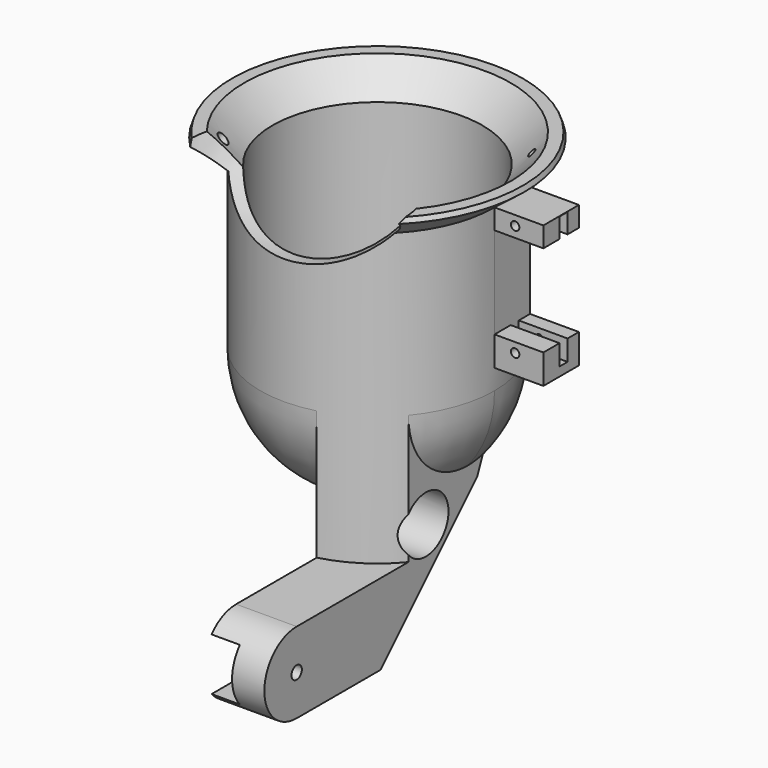
from build123d import *

# Parameters (mm, degrees)
CYLINDER413_R               = 26
CYLINDER413_DEPTH           = 40
CYLINDER408_R               = 1.5
CYLINDER408_DEPTH           = 20
CYLINDER408_PLACEMENT_ANGLE = 45
CYLINDER409_R               = 1
CYLINDER409_DEPTH           = 20
CYLINDER409_PLACEMENT_ANGLE = 45
FUSION402_PLACEMENT_ANGLE   = 45
FUSION406_PLACEMENT_ANGLE   = 12
CYLINDER412_R               = 29
CYLINDER412_DEPTH           = 40
CHAMFER047_SIZE             = 2
CYLINDER414_W               = 29
CYLINDER414_H               = 40
CYLINDER414_ANGLE           = 90
CYLINDER415_W               = 35
CYLINDER415_H               = 40
CYLINDER415_ANGLE           = 90
CYLINDER411_R               = 1.05
CYLINDER411_DEPTH           = 50
CYLINDER407_R               = 1.05
CYLINDER407_DEPTH           = 50
FUSION404_PLACEMENT_ANGLE   = 90
BOX523_W                    = 12.1
BOX523_H                    = 14
BOX523_DEPTH                = 35
BOX521_W                    = 12.1
BOX521_H                    = 2.5
BOX521_DEPTH                = 32.7
BOX522_W                    = 12.1
BOX522_H                    = 26.7
BOX522_DEPTH                = 22.7
CYLINDER410_R               = 2.4
CYLINDER410_DEPTH           = 3
BOX520_W                    = 45.1
BOX520_H                    = 25
BOX520_DEPTH                = 35
CYLINDER417_R               = 26
CYLINDER417_DEPTH           = 40
CYLINDER418_W               = 29
CYLINDER418_H               = 79
CYLINDER418_ANGLE           = 90
CYLINDER419_W               = 50
CYLINDER419_H               = 79
CYLINDER419_ANGLE           = 90
CYLINDER416_R               = 7
CYLINDER416_DEPTH           = 50
BOX524_W                    = 15
BOX524_H                    = 39
BOX524_DEPTH                = 67
CHAMFER045_SIZE             = 30
CHAMFER046_SIZE             = 5
BOX526_W                    = 7
BOX526_H                    = 34
BOX526_DEPTH                = 13
CYLINDER421_R               = 1.6
CYLINDER421_DEPTH           = 25
CYLINDER420_R               = 10
CYLINDER420_DEPTH           = 15
BOX525_W                    = 15
BOX525_H                    = 24
BOX525_DEPTH                = 20
FUSION411_PLACEMENT_ANGLE   = 180


with BuildPart() as sphere012:
    # Sphere012 → Sphere012 (revolve)
    with BuildSketch(Plane(origin=(-34, -145, 13), x_dir=(1, 0, 0), z_dir=(0, -1, 0))):
        with BuildLine():
            ThreePointArc((26, 0), (22.51666, 13), (13, 22.51666))
            Line((13, 22.51666), (0, 22.51666))
            Line((0, 22.51666), (0, 0))
            Line((0, 0), (26, 0))
        make_face()
    revolve(axis=Axis((-34, -145, 13), (0, 0, 1)))


with BuildPart() as fusion405:
    # Cylinder413 → Cylinder413 (new body)
    with BuildSketch(Plane(origin=(-34, -145, -27), x_dir=(1, 0, 0), z_dir=(0, 0, 1))):
        Circle(CYLINDER413_R)
    extrude(amount=CYLINDER413_DEPTH)

    # Fusion405: union Sphere012
    add(sphere012.part)


with BuildPart() as fusion405_1:
    # Fusion405 placement: moved
    add(fusion405.part.moved(Location((0, 0, 12))))


with BuildPart() as cylinder408:
    # Cylinder408 → Cylinder408 (new body)
    with BuildSketch(Plane.XY):
        Circle(CYLINDER408_R)
    extrude(amount=CYLINDER408_DEPTH)


with BuildPart() as cylinder408_1:
    # Cylinder408 placement: moved
    add(cylinder408.part.moved(Location((-57, -145, -26))).rotate(Axis((-57, -145, -26), (0, -1, 0)), CYLINDER408_PLACEMENT_ANGLE))


with BuildPart() as fusion406:
    # Cylinder409 → Cylinder409 (new body)
    with BuildSketch(Plane.XY):
        Circle(CYLINDER409_R)
    extrude(amount=CYLINDER409_DEPTH)


with BuildPart() as fusion406_1:
    # Cylinder409 placement: moved
    add(fusion406.part.moved(Location((-11, -145, -26))).rotate(Axis((-11, -145, -26), (0, 1, 0)), CYLINDER409_PLACEMENT_ANGLE))

    # Fusion402: union Cylinder408
    add(cylinder408_1.part)


with BuildPart() as fusion406_2:
    # Fusion402 placement: moved
    add(fusion406_1.part.moved(Location((92.57, -66.51, 0))).rotate(Axis((92.57, -66.51, 0), (0, 0, -1)), FUSION402_PLACEMENT_ANGLE))


with BuildPart() as fusion406_3:
    # Fusion406 placement: moved
    add(fusion406_2.part.moved(Location((-30.890177, 3.9004, 0))).rotate(Axis((-30.890177, 3.9004, 0), (0, 0, 1)), FUSION406_PLACEMENT_ANGLE))


with BuildPart() as sphere014:
    # Sphere014 → Sphere014 (revolve)
    with BuildSketch(Plane(origin=(-34, -119, -36), x_dir=(1, 0, 0), z_dir=(0, -1, 0))):
        with BuildLine():
            ThreePointArc((0, -30), (30, 0), (0, 30))
            Line((0, 30), (0, -30))
        make_face()
    revolve(axis=Axis((-34, -119, -36), (0, 0, 1)))


with BuildPart() as cylinder412:
    # Cylinder412 → Cylinder412 (new body)
    with BuildSketch(Plane(origin=(-34, -145, -15), x_dir=(1, 0, 0), z_dir=(0, 0, 1))):
        Circle(CYLINDER412_R)
    extrude(amount=CYLINDER412_DEPTH)


with BuildPart() as sphere011:
    # Sphere011 → Sphere011 (revolve)
    with BuildSketch(Plane(origin=(-34, -145, 25), x_dir=(1, 0, 0), z_dir=(0, -1, 0))):
        with BuildLine():
            ThreePointArc((29, 0), (25.114737, 14.5), (14.5, 25.114737))
            Line((14.5, 25.114737), (0, 25.114737))
            Line((0, 25.114737), (0, 0))
            Line((0, 0), (29, 0))
        make_face()
    revolve(axis=Axis((-34, -145, 25), (0, 0, 1)))


with BuildPart() as cone007:
    # Cone007 → Cone007 (revolve)
    with BuildSketch(Plane.XZ):
        Polygon((0, 0), (33, 0), (26, 7), (0, 7), align=None)
    revolve(axis=Axis((0, 0, 0), (0, 0, 1)))


with BuildPart() as cut444:
    # Cone006 → Cone006 (revolve)
    with BuildSketch(Plane.XZ):
        Polygon((0, 0), (38, 0), (29, 7), (0, 7), align=None)
    revolve(axis=Axis((0, 0, 0), (0, 0, 1)))

    # Cut441: cut Cone007
    add(cone007.part, mode=Mode.SUBTRACT)


with BuildPart() as cut444_1:
    # Cut441 placement: moved
    add(cut444.part.moved(Location((-34, -145, -22))))

    # Chamfer047
    chamfer047_edges = [cut444_1.edges().sort_by_distance(p)[0] for p in [
        (-72, -145, -22),
    ]]
    chamfer(chamfer047_edges, length=CHAMFER047_SIZE)

    # Fusion408: union Cylinder412, Sphere011
    add(cylinder412.part)
    add(sphere011.part)

    # Cut443: cut Sphere014
    add(sphere014.part, mode=Mode.SUBTRACT)

    # Cut444: cut Fusion406
    add(fusion406_3.part, mode=Mode.SUBTRACT)


with BuildPart() as cylinder414:
    # Cylinder414 → Cylinder414 (revolve)
    with BuildSketch(Plane.XZ):
        with Locations((14.5, 20)):
            Rectangle(CYLINDER414_W, CYLINDER414_H)
    revolve(axis=Axis((0, 0, 0), (0, 0, 1)), revolution_arc=CYLINDER414_ANGLE)


with BuildPart() as cut440:
    # Cylinder415 → Cylinder415 (revolve)
    with BuildSketch(Plane.XZ):
        with Locations((17.5, 20)):
            Rectangle(CYLINDER415_W, CYLINDER415_H)
    revolve(axis=Axis((0, 0, 0), (0, 0, 1)), revolution_arc=CYLINDER415_ANGLE)

    # Cut440: cut Cylinder414
    add(cylinder414.part, mode=Mode.SUBTRACT)


with BuildPart() as cut440_1:
    # Cut440 placement: moved
    add(cut440.part.moved(Location((-34, -145, -17))))


with BuildPart() as cylinder411:
    # Cylinder411 → Cylinder411 (new body)
    with BuildSketch(Plane(origin=(0, -27.7, 0), x_dir=(1, 0, 0), z_dir=(0, 0, 1))):
        Circle(CYLINDER411_R)
    extrude(amount=CYLINDER411_DEPTH)


with BuildPart() as fusion404:
    # Cylinder407 → Cylinder407 (new body)
    with BuildSketch(Plane.XY):
        Circle(CYLINDER407_R)
    extrude(amount=CYLINDER407_DEPTH)

    # Fusion404: union Cylinder411
    add(cylinder411.part)


with BuildPart() as fusion404_1:
    # Fusion404 placement: moved
    add(fusion404.part.moved(Location((4.1, -111, 13.1))).rotate(Axis((4.1, -111, 13.1), (1, 0, 0)), FUSION404_PLACEMENT_ANGLE))


with BuildPart() as box523:
    # Box523 → Box523 (new body)
    with BuildSketch(Plane(origin=(-1, -135, -17), x_dir=(1, 0, 0), z_dir=(0, 0, 1))):
        with Locations((6.05, 7)):
            Rectangle(BOX523_W, BOX523_H)
    extrude(amount=BOX523_DEPTH)


with BuildPart() as box521:
    # Box521 → Box521 (new body)
    with BuildSketch(Plane(origin=(0, 8.5, -4.9), x_dir=(1, 0, 0), z_dir=(0, 0, 1))):
        with Locations((6.05, 1.25)):
            Rectangle(BOX521_W, BOX521_H)
    extrude(amount=BOX521_DEPTH)


with BuildPart() as box522:
    # Box522 → Box522 (new body)
    with BuildSketch(Plane.XY):
        with Locations((6.05, 13.35)):
            Rectangle(BOX522_W, BOX522_H)
    extrude(amount=BOX522_DEPTH)


with BuildPart() as fusion403:
    # Cylinder410 → Cylinder410 (new body)
    with BuildSketch(Plane(origin=(6.05, 0, 16.4), x_dir=(1, 0, 0), z_dir=(0, -1, 0))):
        Circle(CYLINDER410_R)
    extrude(amount=CYLINDER410_DEPTH)

    # Fusion403: union Box521, Box522
    add(box521.part)
    add(box522.part)


with BuildPart() as fusion403_1:
    # Fusion403 placement: moved
    add(fusion403.part.moved(Location((-1, -151, -12))))


with BuildPart() as cut454:
    # Box520 → Box520 (new body)
    with BuildSketch(Plane(origin=(-34, -146, -17), x_dir=(1, 0, 0), z_dir=(0, 0, 1))):
        with Locations((22.55, 12.5)):
            Rectangle(BOX520_W, BOX520_H)
    extrude(amount=BOX520_DEPTH)

    # Cut450: cut Fusion403
    add(fusion403_1.part, mode=Mode.SUBTRACT)

    # Cut451: cut Box523
    add(box523.part, mode=Mode.SUBTRACT)

    # Cut452: cut Fusion404
    add(fusion404_1.part, mode=Mode.SUBTRACT)


with BuildPart() as cut454_1:
    # Cut452 placement: moved
    add(cut454.part.moved(Location((-4, -10, 2))))

    # Cut453: cut Cut440
    add(cut440_1.part, mode=Mode.SUBTRACT)

    # Fusion409: union Cut444
    add(cut444_1.part)

    # Cut454: cut Fusion405
    add(fusion405_1.part, mode=Mode.SUBTRACT)


with BuildPart() as cut454_2:
    # Cut454 placement: moved
    add(cut454_1.part.moved(Location((0, 0, 5))))


with BuildPart() as sphere013:
    # Sphere013 → Sphere013 (revolve)
    with BuildSketch(Plane(origin=(-34, -145, 13), x_dir=(1, 0, 0), z_dir=(0, -1, 0))):
        with BuildLine():
            ThreePointArc((26, 0), (22.51666, 13), (13, 22.51666))
            Line((13, 22.51666), (0, 22.51666))
            Line((0, 22.51666), (0, 0))
            Line((0, 0), (26, 0))
        make_face()
    revolve(axis=Axis((-34, -145, 13), (0, 0, 1)))


with BuildPart() as fusion401:
    # Cylinder417 → Cylinder417 (new body)
    with BuildSketch(Plane(origin=(-34, -145, -27), x_dir=(1, 0, 0), z_dir=(0, 0, 1))):
        Circle(CYLINDER417_R)
    extrude(amount=CYLINDER417_DEPTH)

    # Fusion401: union Sphere013
    add(sphere013.part)


with BuildPart() as fusion401_1:
    # Fusion401 placement: moved
    add(fusion401.part.moved(Location((0, 0, 17))))


with BuildPart() as cylinder418:
    # Cylinder418 → Cylinder418 (revolve)
    with BuildSketch(Plane.XZ):
        with Locations((14.5, 39.5)):
            Rectangle(CYLINDER418_W, CYLINDER418_H)
    revolve(axis=Axis((0, 0, 0), (0, 0, 1)), revolution_arc=CYLINDER418_ANGLE)


with BuildPart() as cut442:
    # Cylinder419 → Cylinder419 (revolve)
    with BuildSketch(Plane.XZ):
        with Locations((25, 39.5)):
            Rectangle(CYLINDER419_W, CYLINDER419_H)
    revolve(axis=Axis((0, 0, 0), (0, 0, 1)), revolution_arc=CYLINDER419_ANGLE)

    # Cut442: cut Cylinder418
    add(cylinder418.part, mode=Mode.SUBTRACT)


with BuildPart() as cut442_1:
    # Cut442 placement: moved
    add(cut442.part.moved(Location((-34, -145, -17))))


with BuildPart() as cylinder416:
    # Cylinder416 → Cylinder416 (new body)
    with BuildSketch(Plane(origin=(-36, -132, 56), x_dir=(0, 1, 0), z_dir=(1, 0, 0))):
        Circle(CYLINDER416_R)
    extrude(amount=CYLINDER416_DEPTH)


with BuildPart() as fusion410:
    # Box524 → Box524 (new body)
    with BuildSketch(Plane(origin=(-24.3, -155, 15), x_dir=(1, 0, 0), z_dir=(0, 0, 1))):
        with Locations((7.5, 19.5)):
            Rectangle(BOX524_W, BOX524_H)
    extrude(amount=BOX524_DEPTH)

    # Chamfer045
    chamfer045_edges = [fusion410.edges().sort_by_distance(p)[0] for p in [
        (-16.8, -155, 82),
    ]]
    chamfer(chamfer045_edges, length=CHAMFER045_SIZE)

    # Chamfer046
    chamfer046_edges = [fusion410.edges().sort_by_distance(p)[0] for p in [
        (-24.3, -140, 67),
        (-9.3, -155, 33.5),
        (-16.8, -155, 52),
        (-9.3, -140, 67),
    ]]
    chamfer(chamfer046_edges, length=CHAMFER046_SIZE)


with BuildPart() as fusion410_1:
    # Chamfer046 placement: moved
    add(fusion410.part.moved(Location((-2.3, 0, 0))))

    # Cut445: cut Cylinder416
    add(cylinder416.part, mode=Mode.SUBTRACT)

    # Cut446: cut Cut442
    add(cut442_1.part, mode=Mode.SUBTRACT)

    # Cut447: cut Fusion401
    add(fusion401_1.part, mode=Mode.SUBTRACT)

    # Fusion410: union Cut454
    add(cut454_2.part)


with BuildPart() as fusion410_2:
    # Fusion410 placement: moved
    add(fusion410_1.part.moved(Location((0, 3, 0))))


with BuildPart() as box526:
    # Box526 → Box526 (new body)
    with BuildSketch(Plane(origin=(-26.6, -113, 65.5), x_dir=(1, 0, 0), z_dir=(0, 0, 1))):
        with Locations((3.5, 17)):
            Rectangle(BOX526_W, BOX526_H)
    extrude(amount=BOX526_DEPTH)


with BuildPart() as cylinder421:
    # Cylinder421 → Cylinder421 (new body)
    with BuildSketch(Plane(origin=(-31.3, -89, 72), x_dir=(0, 1, 0), z_dir=(1, 0, 0))):
        Circle(CYLINDER421_R)
    extrude(amount=CYLINDER421_DEPTH)


with BuildPart() as cylinder420:
    # Cylinder420 → Cylinder420 (new body)
    with BuildSketch(Plane(origin=(-26.6, -89, 72), x_dir=(0, 1, 0), z_dir=(1, 0, 0))):
        Circle(CYLINDER420_R)
    extrude(amount=CYLINDER420_DEPTH)


with BuildPart() as fusion411:
    # Box525 → Box525 (new body)
    with BuildSketch(Plane(origin=(-26.6, -113, 62), x_dir=(1, 0, 0), z_dir=(0, 0, 1))):
        with Locations((7.5, 12)):
            Rectangle(BOX525_W, BOX525_H)
    extrude(amount=BOX525_DEPTH)

    # Fusion407: union Cylinder420
    add(cylinder420.part)

    # Cut448: cut Cylinder421
    add(cylinder421.part, mode=Mode.SUBTRACT)

    # Cut449: cut Box526
    add(box526.part, mode=Mode.SUBTRACT)

    # Fusion411: union Fusion410
    add(fusion410_2.part)


with BuildPart() as fusion411_1:
    # Fusion411 placement: moved
    add(fusion411.part.moved(Location((0, -178, 144))).rotate(Axis((0, -178, 144), (-1, 0, 0)), FUSION411_PLACEMENT_ANGLE))


solid = fusion411_1.part
